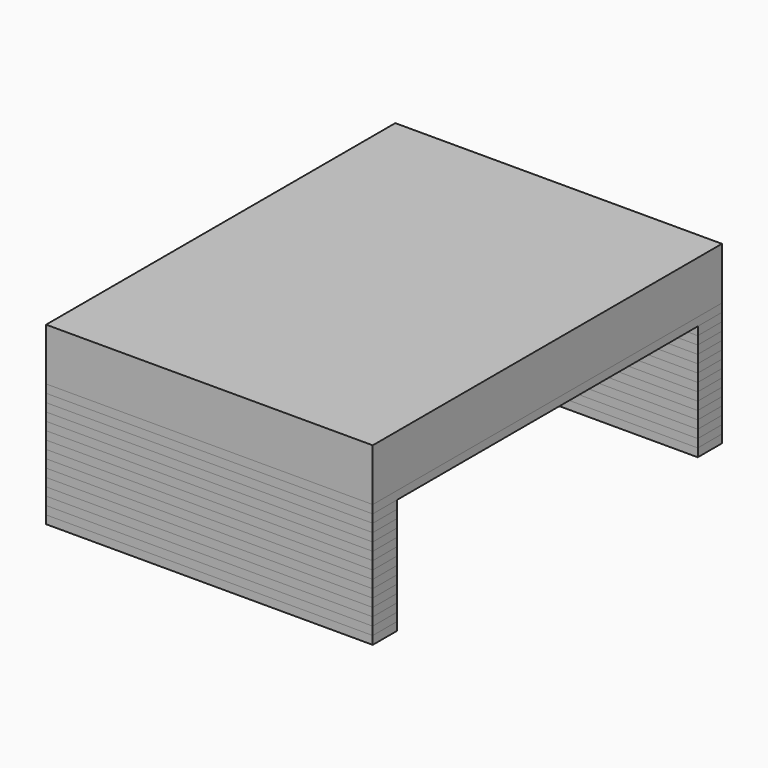
from build123d import *

# Parameters (mm, degrees)
F0_W      = 1511.3
F0_H      = 2019.3
F1_DEPTH  = 241.3
F5_W      = 139.7
F5_H      = 869.95
F6_DEPTH  = 38.1
F7_W      = 1511.3
F7_H      = 139.7
F8_DEPTH  = 38.1
F9_W      = 1511.3
F9_H      = 139.7
F10_DEPTH = 38.1
F11_W     = 1511.3
F11_H     = 139.7
F12_DEPTH = 38.1
F13_W     = 1511.3
F13_H     = 139.7
F14_DEPTH = 38.1
F15_W     = 1511.3
F15_H     = 139.7
F16_DEPTH = 38.1
F17_W     = 1511.3
F17_H     = 139.7
F18_DEPTH = 38.1
F19_W     = 1511.3
F19_H     = 139.7
F20_DEPTH = 38.1
F21_W     = 1511.3
F21_H     = 139.7
F22_DEPTH = 38.1
F23_W     = 1511.3
F23_H     = 139.7
F24_DEPTH = 38.1
F25_W     = 1511.3
F25_H     = 139.7
F26_DEPTH = 38.1
F27_W     = 1511.3
F27_H     = 139.7
F28_DEPTH = 38.1
F29_W     = 1511.3
F29_H     = 139.7
F30_DEPTH = 38.1
F31_W     = 1511.3
F31_H     = 139.7
F32_DEPTH = 38.1
F33_W     = 1511.3
F33_H     = 139.7
F34_DEPTH = 38.1


with BuildPart() as f1:
    # F0 (on Top) → F1 (new body)
    with BuildSketch(Plane.XY):
        Rectangle(F0_W, F0_H)
    extrude(amount=F1_DEPTH)


with BuildPart() as f6:
    # F5 (on face) → F6 (new body)
    with BuildSketch(Plane(origin=(0, 0, 0), x_dir=(1, 0, 0), z_dir=(0, 0, -1))):
        Polygon((755.65, 1009.65), (-755.65, 1009.65), (-755.65, 869.95), (-615.95, 869.95), (615.95, 869.95), (755.65, 869.95), align=None)
        with Locations((-685.8, 434.975)):
            Rectangle(F5_W, F5_H)
        with Locations((685.8, 434.975)):
            Rectangle(F5_W, F5_H)
    extrude(amount=F6_DEPTH)

    # F36: F6 across plane


with BuildPart() as f8:
    # F7 (on face) → F8 (new body)
    with BuildSketch(Plane(origin=(0, 0, -38.1), x_dir=(1, 0, 0), z_dir=(0, 0, -1))):
        with Locations((0, 939.8)):
            Rectangle(F7_W, F7_H)
    extrude(amount=F8_DEPTH)


with BuildPart() as f10:
    # F9 (on face) → F10 (new body)
    with BuildSketch(Plane(origin=(0, 0, -76.2), x_dir=(1, 0, 0), z_dir=(0, 0, -1))):
        with Locations((0, 939.8)):
            Rectangle(F9_W, F9_H)
    extrude(amount=F10_DEPTH)


with BuildPart() as f12:
    # F11 (on face) → F12 (new body)
    with BuildSketch(Plane(origin=(0, 0, -114.3), x_dir=(1, 0, 0), z_dir=(0, 0, -1))):
        with Locations((0, 939.8)):
            Rectangle(F11_W, F11_H)
    extrude(amount=F12_DEPTH)


with BuildPart() as f14:
    # F13 (on face) → F14 (new body)
    with BuildSketch(Plane(origin=(0, 0, -152.4), x_dir=(1, 0, 0), z_dir=(0, 0, -1))):
        with Locations((0, 939.8)):
            Rectangle(F13_W, F13_H)
    extrude(amount=F14_DEPTH)


with BuildPart() as f16:
    # F15 (on face) → F16 (new body)
    with BuildSketch(Plane(origin=(0, 0, -190.5), x_dir=(1, 0, 0), z_dir=(0, 0, -1))):
        with Locations((0, 939.8)):
            Rectangle(F15_W, F15_H)
    extrude(amount=F16_DEPTH)


with BuildPart() as f18:
    # F17 (on face) → F18 (new body)
    with BuildSketch(Plane(origin=(0, 0, -228.6), x_dir=(1, 0, 0), z_dir=(0, 0, -1))):
        with Locations((0, 939.8)):
            Rectangle(F17_W, F17_H)
    extrude(amount=F18_DEPTH)


with BuildPart() as f20:
    # F19 (on face) → F20 (new body)
    with BuildSketch(Plane(origin=(0, 0, -266.7), x_dir=(1, 0, 0), z_dir=(0, 0, -1))):
        with Locations((0, 939.8)):
            Rectangle(F19_W, F19_H)
    extrude(amount=F20_DEPTH)


with BuildPart() as f22:
    # F21 (on face) → F22 (new body)
    with BuildSketch(Plane(origin=(0, 0, -304.8), x_dir=(1, 0, 0), z_dir=(0, 0, -1))):
        with Locations((0, 939.8)):
            Rectangle(F21_W, F21_H)
    extrude(amount=F22_DEPTH)


with BuildPart() as f24:
    # F23 (on face) → F24 (new body)
    with BuildSketch(Plane(origin=(0, 0, -342.9), x_dir=(1, 0, 0), z_dir=(0, 0, -1))):
        with Locations((0, 939.8)):
            Rectangle(F23_W, F23_H)
    extrude(amount=F24_DEPTH)


with BuildPart() as f26:
    # F25 (on face) → F26 (new body)
    with BuildSketch(Plane(origin=(0, 0, -381), x_dir=(1, 0, 0), z_dir=(0, 0, -1))):
        with Locations((0, 939.8)):
            Rectangle(F25_W, F25_H)
    extrude(amount=F26_DEPTH)


with BuildPart() as f28:
    # F27 (on face) → F28 (new body)
    with BuildSketch(Plane(origin=(0, 0, -419.1), x_dir=(1, 0, 0), z_dir=(0, 0, -1))):
        with Locations((0, 939.8)):
            Rectangle(F27_W, F27_H)
    extrude(amount=F28_DEPTH)


with BuildPart() as f30:
    # F29 (on face) → F30 (new body)
    with BuildSketch(Plane(origin=(0, 0, -457.2), x_dir=(1, 0, 0), z_dir=(0, 0, -1))):
        with Locations((0, 939.8)):
            Rectangle(F29_W, F29_H)
    extrude(amount=F30_DEPTH)


with BuildPart() as f32:
    # F31 (on face) → F32 (new body)
    with BuildSketch(Plane(origin=(0, 0, -495.3), x_dir=(1, 0, 0), z_dir=(0, 0, -1))):
        with Locations((0, 939.8)):
            Rectangle(F31_W, F31_H)
    extrude(amount=F32_DEPTH)


with BuildPart() as f34:
    # F33 (on face) → F34 (new body)
    with BuildSketch(Plane(origin=(0, 0, -533.4), x_dir=(1, 0, 0), z_dir=(0, 0, -1))):
        with Locations((0, 939.8)):
            Rectangle(F33_W, F33_H)
    extrude(amount=F34_DEPTH)


with BuildPart() as f35_1:
    # F35: instance of F10
    add(f10.part.mirror(Plane.XZ))


with BuildPart() as f35_2:
    # F35: instance of F12
    add(f12.part.mirror(Plane.XZ))


with BuildPart() as f35_3:
    # F35: instance of F14
    add(f14.part.mirror(Plane.XZ))


with BuildPart() as f35_4:
    # F35: instance of F16
    add(f16.part.mirror(Plane.XZ))


with BuildPart() as f35_5:
    # F35: instance of F18
    add(f18.part.mirror(Plane.XZ))


with BuildPart() as f35_6:
    # F35: instance of F20
    add(f20.part.mirror(Plane.XZ))


with BuildPart() as f35_7:
    # F35: instance of F22
    add(f22.part.mirror(Plane.XZ))


with BuildPart() as f35_8:
    # F35: instance of F24
    add(f24.part.mirror(Plane.XZ))


with BuildPart() as f35_9:
    # F35: instance of F26
    add(f26.part.mirror(Plane.XZ))


with BuildPart() as f35_10:
    # F35: instance of F28
    add(f28.part.mirror(Plane.XZ))


with BuildPart() as f35_11:
    # F35: instance of F30
    add(f30.part.mirror(Plane.XZ))


with BuildPart() as f35_12:
    # F35: instance of F32
    add(f32.part.mirror(Plane.XZ))


with BuildPart() as f35_13:
    # F35: instance of F34
    add(f34.part.mirror(Plane.XZ))


with BuildPart() as f35_14:
    # F35: instance of F8
    add(f8.part.mirror(Plane.XZ))


with BuildPart() as f6_1:
    add(f6.part)
    add(f6.part.mirror(Plane.XZ))


solid = Compound([f1.part, f8.part, f10.part, f12.part, f14.part, f16.part, f18.part, f20.part, f22.part, f24.part, f26.part, f28.part, f30.part, f32.part, f34.part, f35_1.part, f35_2.part, f35_3.part, f35_4.part, f35_5.part, f35_6.part, f35_7.part, f35_8.part, f35_9.part, f35_10.part, f35_11.part, f35_12.part, f35_13.part, f35_14.part, f6_1.part])
